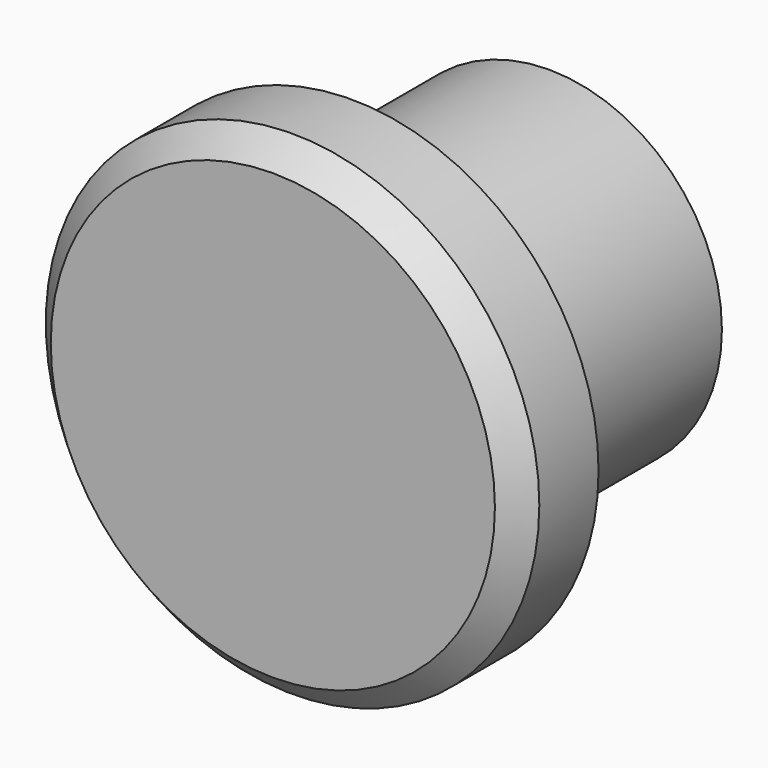
from build123d import *

# Parameters (mm, degrees)
F0_R     = 3.5
F1_DEPTH = 5
F2_R     = 5
F2_R_2   = 3.5
F3_DEPTH = 2
F4_R     = 2
F5_DEPTH = 5
F6_SIZE  = 0.5


with BuildPart() as f1:
    # F0 (on Front) → F1 (new body)
    with BuildSketch(Plane.XZ):
        Circle(F0_R)
    extrude(amount=F1_DEPTH)

    # F2 (on face) → F3 (join)
    with BuildSketch(Plane.XZ.offset(5)):
        Circle(F2_R)
        Circle(F2_R_2, mode=Mode.SUBTRACT)
        Circle(F2_R_2)
    extrude(amount=F3_DEPTH)

    # F4 (on face) → F5 (cut, through all)
    with BuildSketch(Plane(origin=(0, 0, 0), x_dir=(-1, 0, 0), z_dir=(0, 1, 0))):
        Circle(F4_R)
    extrude(amount=-F5_DEPTH, mode=Mode.SUBTRACT)

    # F6
    f6_edges = [f1.edges().sort_by_distance(p)[0] for p in [
        (-5, -7, 0),
    ]]
    chamfer(f6_edges, length=F6_SIZE)


solid = f1.part
